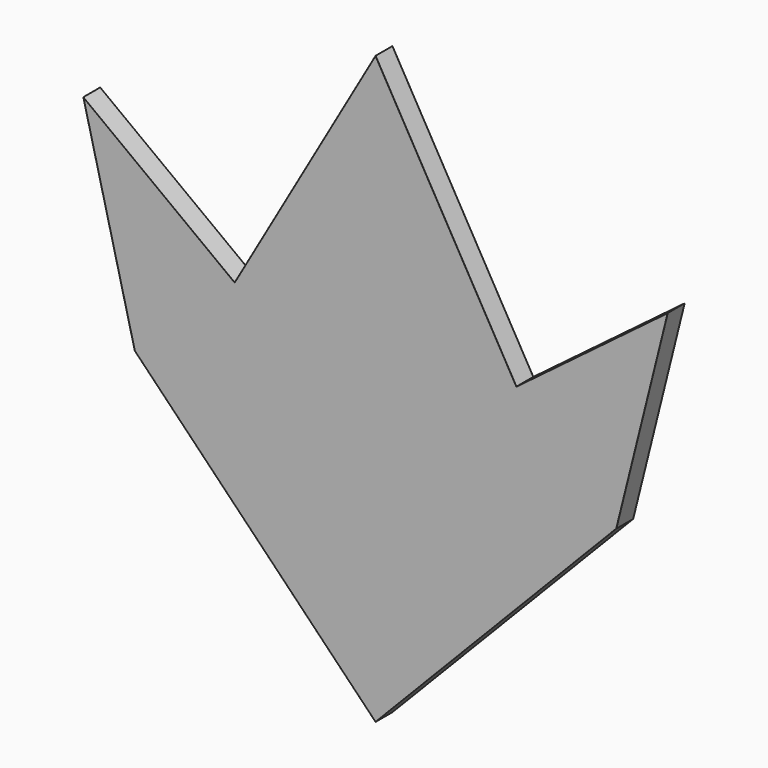
from build123d import *

# Parameters (mm, degrees)
F1_DEPTH = 4.7
F2_R     = 0.024142


with BuildPart() as f1:
    # F0 (on Front) → F1 (new body)
    with BuildSketch(Plane.XZ):
        Polygon((-39.624013, 20.545465), (-64.844049, 45.83535), (-50.10891, 20.545465), align=None)
        Polygon((-39.624013, 9.247222), (-53.424839, 0), (-39.624013, 0), align=None)
        Polygon((-39.624013, 0), (-4.458583, -17.23217), (-39.624013, 9.247222), align=None)
        Polygon((-8.164178, -8.527329), (-31.25832, 20.545465), (-36.872391, 13.08981), align=None)
        Polygon((36.872391, 13.08981), (31.25832, 20.545465), (8.164178, -8.527329), align=None)
        Polygon((-50.10891, 20.545465), (-64.844049, 45.83535), (-53.424839, 0), align=None)
        Polygon((53.424839, 0), (64.844049, 45.83535), (51.224452, 20.545465), align=None)
        Polygon((-53.424839, 0), (-39.624013, 20.545465), (-50.10891, 20.545465), align=None)
        Polygon((0, -41.830052), (0, -38.849156), (-9.017084, -32.292167), align=None)
        Polygon((-8.164178, -8.527329), (-8.164178, 34.70695), (-17.209567, 15.423087), align=None)
        Polygon((9.017084, -32.292167), (0, -38.849156), (0, -41.830052), align=None)
        Polygon((-17.209567, 15.423087), (-31.25832, 20.545465), (-8.164178, -8.527329), align=None)
        Polygon((-9.017084, -32.292167), (0, -38.849156), (-12.023887, -23.88629), align=None)
        Polygon((0, 13.08981), (-8.164178, 34.70695), (-8.164178, -8.527329), align=None)
        Polygon((0, -23.88629), (-4.458583, -17.23217), (0, -38.849156), align=None)
        Polygon((-12.023887, -23.88629), (-53.424839, 0), (-9.017084, -32.292167), align=None)
        Polygon((8.164178, -8.527329), (8.164178, 34.70695), (0, 13.08981), align=None)
        Polygon((0, -38.849156), (-4.458583, -17.23217), (-6.800296, -23.88629), align=None)
        Polygon((-9.017084, -32.292167), (-53.424839, 0), (-9.017084, -38.849156), align=None)
        Polygon((16.539879, 15.423087), (8.164178, 34.70695), (8.164178, -8.527329), align=None)
        Polygon((0, 51.367465), (-8.164178, 34.70695), (0, 13.08981), align=None)
        Polygon((-36.872391, 13.08981), (-31.25832, 20.545465), (-64.844049, 45.83535), (-39.624013, 20.545465), (-53.424839, 0), (-39.624013, 9.247222), (-4.458583, -17.23217), (-8.164178, -8.527329), align=None)
        Polygon((39.624013, 0), (4.458583, -17.23217), (53.424839, 0), align=None)
        Polygon((0, 13.08981), (8.164178, 34.70695), (0, 51.367465), align=None)
        Polygon((64.844049, 45.83535), (31.25832, 20.545465), (36.872391, 13.08981), (8.164178, -8.527329), (4.458583, -17.23217), (39.624013, 9.247222), (53.424839, 0), (39.624013, 20.545465), align=None)
        Polygon((51.224452, 20.545465), (39.624013, 20.545465), (53.424839, 0), align=None)
        Polygon((8.164178, -8.527329), (0, 13.08981), (0, 0), align=None)
        Polygon((0, -17.23217), (-8.164178, -8.527329), (-4.458583, -17.23217), (0, -23.88629), (4.458583, -17.23217), (8.164178, -8.527329), align=None)
        Polygon((39.624013, 0), (53.424839, 0), (39.624013, 9.247222), align=None)
        Polygon((-53.424839, 0), (-4.458583, -17.23217), (-39.624013, 0), align=None)
        Polygon((0, 13.08981), (-8.164178, -8.527329), (0, 0), align=None)
        Polygon((51.224452, 20.545465), (64.844049, 45.83535), (39.624013, 20.545465), align=None)
        Polygon((0, -17.23217), (8.164178, -8.527329), (0, 0), align=None)
        Polygon((12.45934, -23.88629), (4.458583, -17.23217), (6.800296, -23.88629), align=None)
        Polygon((39.624013, 9.247222), (4.458583, -17.23217), (39.624013, 0), align=None)
        Polygon((0, 0), (-8.164178, -8.527329), (0, -17.23217), align=None)
        Polygon((6.800296, -23.88629), (0, -38.849156), (12.45934, -23.88629), align=None)
        Polygon((0, -38.849156), (4.458583, -17.23217), (0, -23.88629), align=None)
        Polygon((31.25832, 20.545465), (8.164178, 34.70695), (16.539879, 15.423087), align=None)
        Polygon((-6.800296, -23.88629), (-4.458583, -17.23217), (-12.023887, -23.88629), align=None)
        Polygon((6.800296, -23.88629), (4.458583, -17.23217), (0, -38.849156), align=None)
        Polygon((13.447622, 38.903885), (8.164178, 34.70695), (31.25832, 20.545465), align=None)
        Polygon((-12.023887, -23.88629), (0, -38.849156), (-6.800296, -23.88629), align=None)
        Polygon((9.017084, -32.292167), (53.424839, 0), (12.45934, -23.88629), align=None)
        Polygon((8.164178, -8.527329), (31.25832, 20.545465), (16.539879, 15.423087), align=None)
        Polygon((9.017084, -38.849156), (53.424839, 0), (9.017084, -32.292167), align=None)
        Polygon((-17.209567, 15.423087), (-8.164178, 34.70695), (-31.25832, 20.545465), align=None)
        Polygon((12.45934, -23.88629), (0, -38.849156), (9.017084, -32.292167), align=None)
        Polygon((-31.25832, 20.545465), (-8.164178, 34.70695), (-14.412208, 38.903885), align=None)
        Polygon((0, 51.367465), (0, 75.000115), (-8.164178, 34.70695), align=None)
        Polygon((-8.164178, 34.70695), (0, 75.000115), (-14.412208, 38.903885), align=None)
        Polygon((8.164178, 34.70695), (0, 75.000115), (0, 51.367465), align=None)
        Polygon((13.447622, 38.903885), (0, 75.000115), (8.164178, 34.70695), align=None)
        Polygon((-9.017084, -38.849156), (-53.424839, 0), (0, -55.125013), align=None)
        Polygon((0, -46.737555), (-9.017084, -32.292167), (-7.911413, -37.652902), align=None)
        Polygon((7.911413, -37.652902), (9.017084, -32.292167), (0, -46.737555), align=None)
        Polygon((-9.017084, -38.849156), (0, -55.125013), (0, -50.224371), align=None)
        Polygon((0, -46.737555), (-9.017084, -38.849156), (0, -50.224371), align=None)
        Polygon((0, -50.224371), (0, -55.125013), (9.017084, -38.849156), align=None)
        Polygon((0, -41.830052), (-9.017084, -32.292167), (0, -46.737555), align=None)
        Polygon((0, -46.737555), (9.017084, -32.292167), (0, -41.830052), align=None)
        Polygon((9.017084, -38.849156), (9.017084, -32.292167), (7.911413, -37.652902), (0, -46.737555), align=None)
        Polygon((0, -50.224371), (9.017084, -38.849156), (0, -46.737555), align=None)
        Polygon((-7.911413, -37.652902), (-9.017084, -32.292167), (-9.017084, -38.849156), (0, -46.737555), align=None)
        Polygon((0, -55.125013), (53.424839, 0), (9.017084, -38.849156), align=None)
        Polygon((-14.412208, 38.903885), (0, 75.000115), (-31.25832, 20.545465), align=None)
        Polygon((31.25832, 20.545465), (0, 75.000115), (13.447622, 38.903885), align=None)
        Polygon((-12.023887, -23.88629), (-4.458583, -17.23217), (-53.424839, 0), align=None)
        Polygon((53.424839, 0), (4.458583, -17.23217), (12.45934, -23.88629), align=None)
    extrude(amount=F1_DEPTH)

    # F2
    f2_edges = [f1.edges().sort_by_distance(p)[0] for p in [
        (26.712419, -4.7, -27.562506),
        (59.134444, -4.7, 22.917675),
        (48.051184, -4.7, 33.190408),
        (15.62916, -4.7, 47.77279),
        (-15.62916, -4.7, 47.77279),
        (-48.051184, -4.7, 33.190408),
        (-59.134444, -4.7, 22.917675),
        (-26.712419, -4.7, -27.562506),
        (26.712419, 0, -27.562506),
        (59.134444, 0, 22.917675),
        (48.051184, 0, 33.190408),
        (15.62916, 0, 47.77279),
        (-15.62916, 0, 47.77279),
        (-48.051184, 0, 33.190408),
        (-59.134444, 0, 22.917675),
        (-26.712419, 0, -27.562506),
    ]]
    fillet(f2_edges, radius=F2_R)


solid = f1.part
